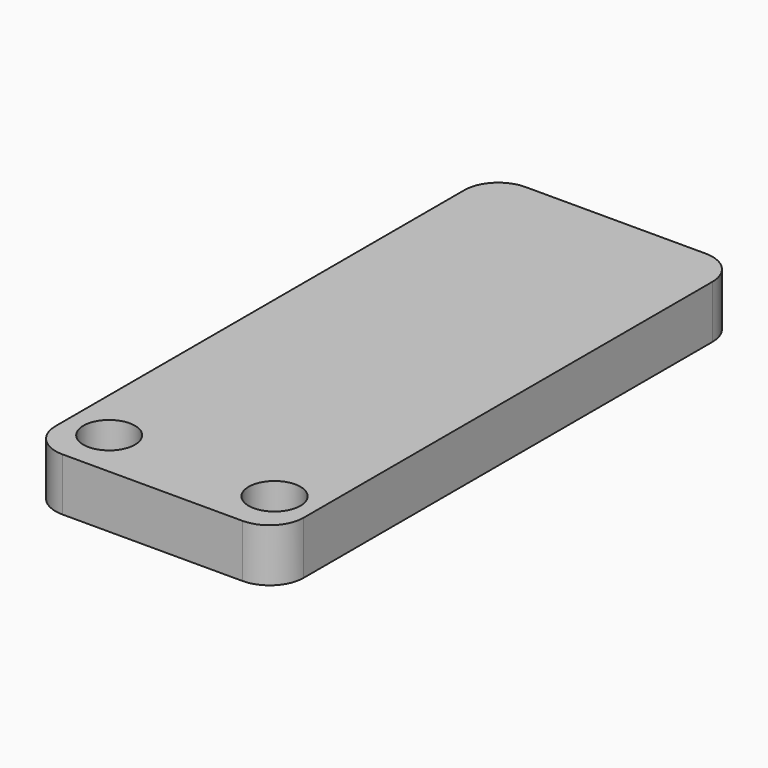
from build123d import *

# Parameters (mm, degrees)
F0_W     = 36.542269
F0_H     = 85.265293
F0_R     = 3.800509
F0_R_2   = 3.811055
F1_DEPTH = 7.8
F2_R     = 5


with BuildPart() as f1:
    # F0 (on Top) → F1 (new body)
    with BuildSketch(Plane.XY):
        with Locations((0.42491, -8.356568)):
            Rectangle(F0_W, F0_H)
        with Locations((-11.614209, -43.907374)):
            Circle(F0_R, mode=Mode.SUBTRACT)
        with Locations((12.747302, -43.907374)):
            Circle(F0_R_2, mode=Mode.SUBTRACT)
    extrude(amount=F1_DEPTH)

    # F2
    f2_edges = [f1.edges().sort_by_distance(p)[0] for p in [
        (-17.846225, -50.989214, 3.9),
        (18.696044, -50.989214, 3.9),
        (18.696044, 34.276079, 3.9),
        (-17.846225, 34.276079, 3.9),
    ]]
    fillet(f2_edges, radius=F2_R)


solid = f1.part
